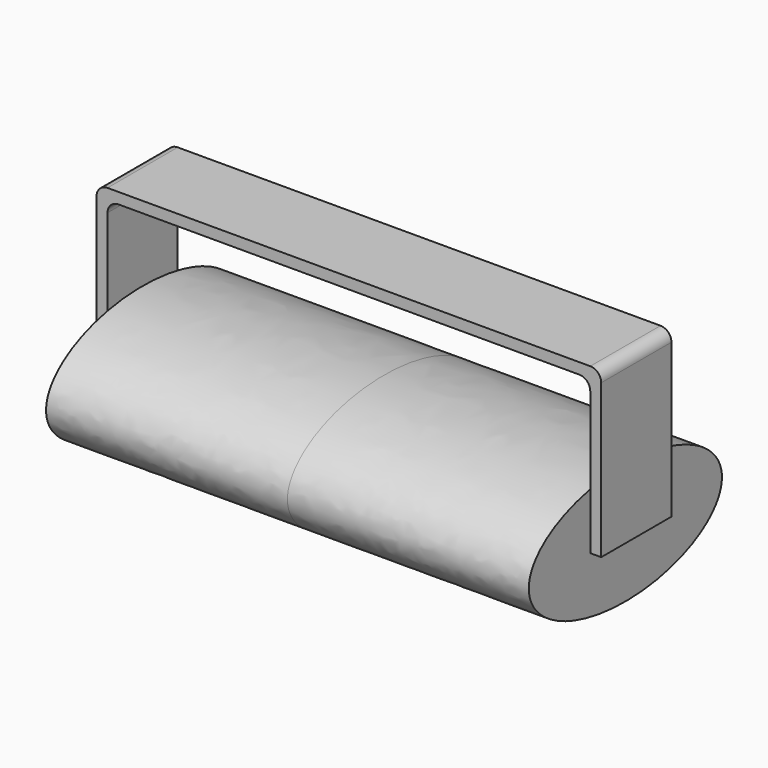
from build123d import *

# Parameters (mm, degrees)
F1_DEPTH      = 279.4
F1_DEPTH_BACK = 279.4
F3_DEPTH      = 50.8
F3_DEPTH_BACK = 50.8


with BuildPart() as f1:
    # F0 (on Right) → F1 (new body, two sides)
    with BuildSketch(Plane.YZ) as f1_sk:
        with BuildLine():
            add(Edge.make_bspline(
                [(139.7, 0), (139.7, 121.135335), (-69.85, 60.567667), (-279.4, 0), (-69.85, -60.567667), (139.7, -121.135335), (139.7, 0)],
                knots=[0, 0, 0, 2.094395, 2.094395, 4.18879, 4.18879, 6.283185, 6.283185, 6.283185], degree=2, weights=[1, 0.5, 1, 0.5, 1, 0.5, 1]))
        make_face()
    extrude(amount=F1_DEPTH)
    extrude(f1_sk.sketch, amount=-F1_DEPTH_BACK)


with BuildPart() as f3:
    # F2 (on Front) → F3 (new body, two sides)
    with BuildSketch(Plane.XZ) as f3_sk:
        with BuildLine():
            Line((-266.7, 177.8), (0, 177.8))
            Line((0, 177.8), (0, 190.5))
            Line((0, 190.5), (-279.4, 190.5))
            ThreePointArc((-279.4, 190.5), (-288.380256, 186.780256), (-292.1, 177.8))
            Line((-292.1, 177.8), (-292.1, 0))
            Line((-292.1, 0), (-279.4, 0))
            Line((-279.4, 0), (-279.4, 165.1))
            ThreePointArc((-279.4, 165.1), (-275.680256, 174.080256), (-266.7, 177.8))
        make_face()
        with BuildLine():
            Line((0, 190.5), (0, 177.8))
            Line((0, 177.8), (266.7, 177.8))
            ThreePointArc((266.7, 177.8), (275.680256, 174.080256), (279.4, 165.1))
            Line((279.4, 165.1), (279.4, 0))
            Line((279.4, 0), (292.1, 0))
            Line((292.1, 0), (292.1, 177.8))
            ThreePointArc((292.1, 177.8), (288.380256, 186.780256), (279.4, 190.5))
            Line((279.4, 190.5), (0, 190.5))
        make_face()
    extrude(amount=F3_DEPTH)
    extrude(f3_sk.sketch, amount=-F3_DEPTH_BACK)


solid = Compound([f1.part, f3.part])
